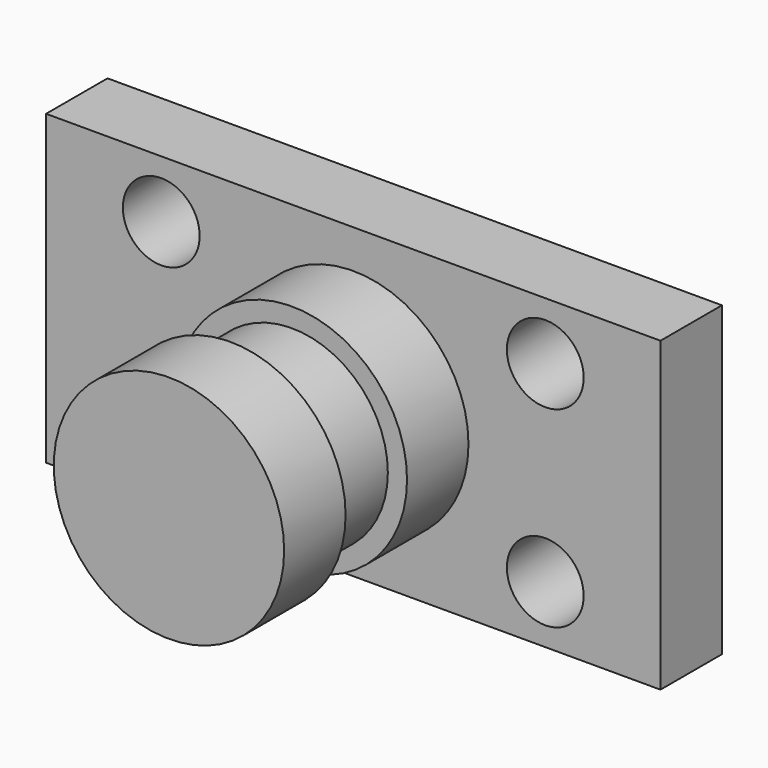
from build123d import *

# Parameters (mm, degrees)
F0_W     = 203.2
F0_H     = 101.6
F1_DEPTH = 25.4
F3_D     = 25.4
F4_R     = 38.1
F5_DEPTH = 25.4
F6_R     = 31.75
F7_DEPTH = 25.4
F8_R     = 38.1
F9_DEPTH = 25.4


with BuildPart() as f1:
    # F0 (on Front) → F1 (new body)
    with BuildSketch(Plane.XZ):
        Rectangle(F0_W, F0_H)
    extrude(amount=F1_DEPTH)

    # F3 (through all)
    with Locations(Plane.XZ.offset(25.4)):
        with Locations((-63.5, 31.75), (-63.5, -31.75), (63.5, -31.75), (63.5, 31.75)):
            Hole(F3_D / 2)



with BuildPart() as f5:
    # F4 (on face) → F5 (new body)
    with BuildSketch(Plane.XZ.offset(76.2)):
        Circle(F4_R)
    extrude(amount=F5_DEPTH)

    # F6 (on face) → F7 (join)
    with BuildSketch(Plane.XZ.offset(50.8)):
        Circle(F6_R)
    extrude(amount=F7_DEPTH)


with BuildPart() as f1_1:
    add(f1.part)

    add(f5.part)  # F9 merges F5
    # F8 (on face) → F9 (join)
    with BuildSketch(Plane.XZ.offset(25.4)):
        Circle(F8_R)
    extrude(amount=F9_DEPTH)


solid = f1_1.part
